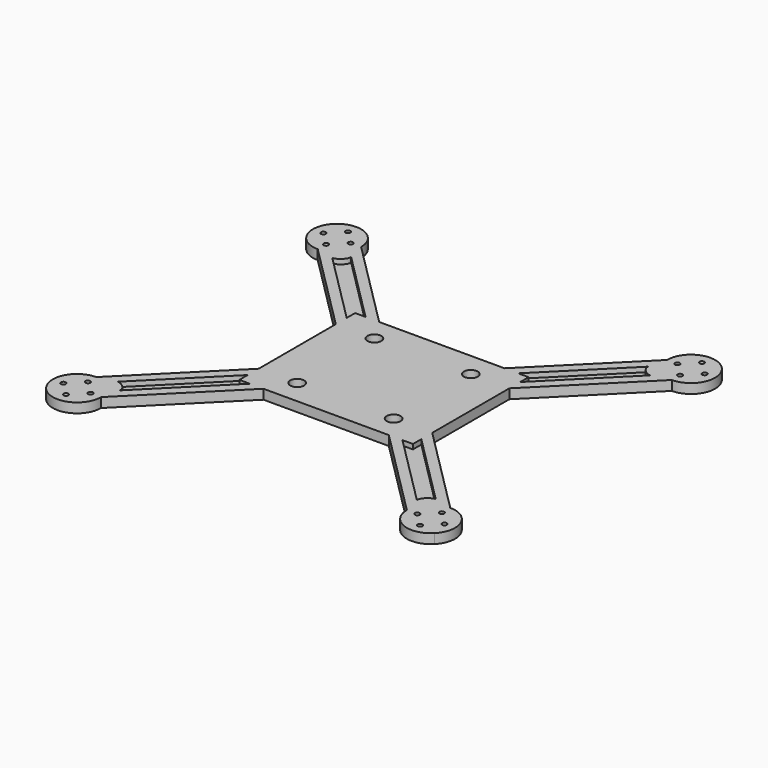
from build123d import *

# Parameters (mm, degrees)
F0_R     = 1.443985
F0_R_2   = 0.5
F1_DEPTH = 1
F2_DEPTH = 12.5
F3_DEPTH = 1


with BuildPart() as f1:
    # F0 (on Top) → F1 (new body, symmetric)
    with BuildSketch(Plane.XY):
        with BuildLine():
            Line((-30.798228, 29.969801), (-15.828427, 15))
            Line((-15.828427, 15), (-13, 15))
            Line((-13, 15), (-31.713203, 33.713203))
            ThreePointArc((-31.713203, 33.713203), (-32.093806, 31.799786), (-33.17767, 30.17767))
            ThreePointArc((-33.17767, 30.17767), (-34.799786, 29.093806), (-36.713203, 28.713203))
            Line((-36.713203, 28.713203), (-18, 10))
            Line((-18, 10), (-18, 12.828427))
            Line((-18, 12.828427), (-32.969801, 27.798228))
            add(Edge.make_bspline(
                [(-32.969801, 27.798228), (-32.001644, 27.823906), (-30.61594, 29.101571), (-30.798228, 29.969801)],
                knots=[0, 0, 0, 0, 3.071068, 3.071068, 3.071068, 3.071068], degree=3))
        make_face()
        Polygon((0, 15), (-13, 15), (-18, 10), (-18, 0), (0, 0), align=None)
        with Locations((-10, 10)):
            Circle(F0_R, mode=Mode.SUBTRACT)
        Polygon((-15.828427, 15), (-18, 15), (-18, 12.828427), (-18, 10), (-13, 15), align=None)
        with BuildLine():
            ThreePointArc((-33.17767, 30.17767), (-32.093806, 31.799786), (-31.713203, 33.713203))
            Line((-31.713203, 33.713203), (-34.213203, 36.213203))
            Line((-34.213203, 36.213203), (-36.713203, 33.713203))
            Line((-36.713203, 33.713203), (-33.17767, 30.17767))
        make_face()
        with Locations((-33.884776, 33.713203)):
            Circle(F0_R_2, mode=Mode.SUBTRACT)
        with BuildLine():
            Line((-34.213203, 36.213203), (-31.713203, 33.713203))
            ThreePointArc((-31.713203, 33.713203), (-34.799786, 38.332601), (-40.248737, 37.248737))
            Line((-40.248737, 37.248737), (-36.713203, 33.713203))
            Line((-36.713203, 33.713203), (-34.213203, 36.213203))
        make_face()
        with Locations((-36.713203, 36.541631)):
            Circle(F0_R_2, mode=Mode.SUBTRACT)
        with BuildLine():
            Line((-18, 12.828427), (-18, 15))
            Line((-18, 15), (-15.828427, 15))
            Line((-15.828427, 15), (-30.798228, 29.969801))
            add(Edge.make_bspline(
                [(-32.969801, 27.798228), (-32.001644, 27.823906), (-30.61594, 29.101571), (-30.798228, 29.969801)],
                knots=[0, 0, 0, 0, 3.071068, 3.071068, 3.071068, 3.071068], degree=3))
            Line((-32.969801, 27.798228), (-18, 12.828427))
        make_face()
        with BuildLine():
            Line((-39.213203, 31.213203), (-36.713203, 28.713203))
            ThreePointArc((-36.713203, 28.713203), (-34.799786, 29.093806), (-33.17767, 30.17767))
            Line((-33.17767, 30.17767), (-36.713203, 33.713203))
            Line((-36.713203, 33.713203), (-39.213203, 31.213203))
        make_face()
        with Locations((-36.713203, 30.884776)):
            Circle(F0_R_2, mode=Mode.SUBTRACT)
        with BuildLine():
            ThreePointArc((-40.248737, 37.248737), (-41.332601, 31.799786), (-36.713203, 28.713203))
            Line((-36.713203, 28.713203), (-39.213203, 31.213203))
            Line((-39.213203, 31.213203), (-36.713203, 33.713203))
            Line((-36.713203, 33.713203), (-40.248737, 37.248737))
        make_face()
        with Locations((-39.541631, 33.713203)):
            Circle(F0_R_2, mode=Mode.SUBTRACT)
        with Locations((-36.713203, 30.884776)):
            Circle(F0_R_2)
        with Locations((-33.884776, 33.713203)):
            Circle(F0_R_2)
        with Locations((-39.541631, 33.713203)):
            Circle(F0_R_2)
        with Locations((-36.713203, 36.541631)):
            Circle(F0_R_2)
    extrude(amount=F1_DEPTH, both=True)

    # F0 (on Top) → F2 (cut, symmetric)
    with BuildSketch(Plane.XY):
        with Locations((-39.541631, 33.713203)):
            Circle(F0_R_2)
        with Locations((-36.713203, 36.541631)):
            Circle(F0_R_2)
        with Locations((-33.884776, 33.713203)):
            Circle(F0_R_2)
        with Locations((-36.713203, 30.884776)):
            Circle(F0_R_2)
    extrude(amount=F2_DEPTH, both=True, mode=Mode.SUBTRACT)

    # F0 (on Top) → F3 (cut)
    with BuildSketch(Plane.XY):
        with BuildLine():
            Line((-18, 12.828427), (-18, 15))
            Line((-18, 15), (-15.828427, 15))
            Line((-15.828427, 15), (-30.798228, 29.969801))
            add(Edge.make_bspline(
                [(-32.969801, 27.798228), (-32.001644, 27.823906), (-30.61594, 29.101571), (-30.798228, 29.969801)],
                knots=[0, 0, 0, 0, 3.071068, 3.071068, 3.071068, 3.071068], degree=3))
            Line((-32.969801, 27.798228), (-18, 12.828427))
        make_face()
    extrude(amount=F3_DEPTH, mode=Mode.SUBTRACT)

    # F4: F1 across plane


with BuildPart() as f1_1:
    add(f1.part)
    add(f1.part.mirror(Plane.XZ))

    # F5: F1 across plane


with BuildPart() as f1_2:
    add(f1_1.part)
    add(f1_1.part.mirror(Plane.YZ))


solid = f1_2.part
